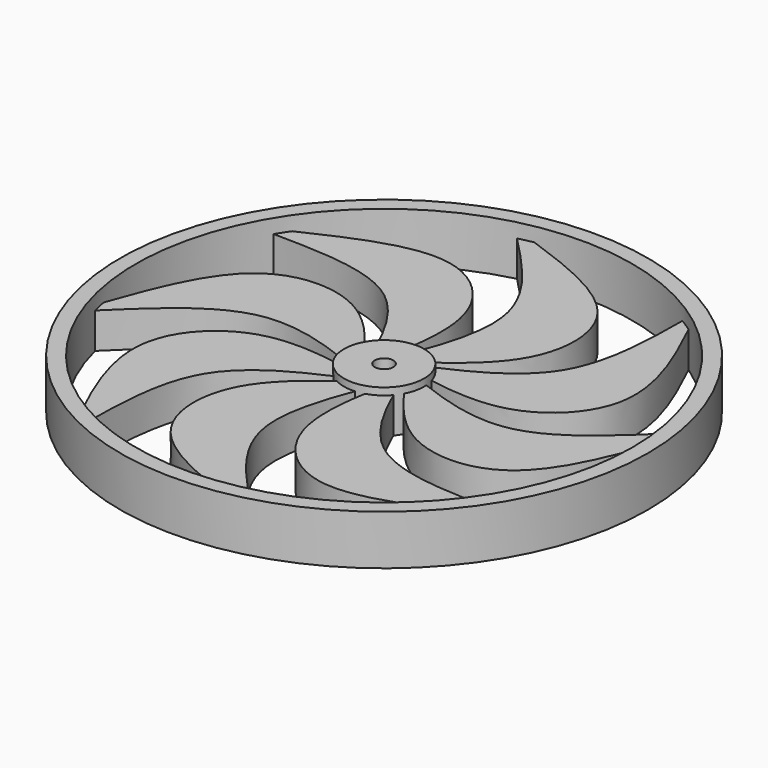
from build123d import *

# Parameters (mm, degrees)
F1_DEPTH = 6.35
F3_COUNT = 8
F4_R     = 47.0825039729
F4_R_2   = 44.3068303906
F5_DEPTH = 8.89
F6_R     = 7.1417908763
F6_R_2   = 1.651
F7_DEPTH = 7.62


with BuildPart() as f1:
    # F0 (on Top) → F1 (new body)
    with BuildSketch(Plane.XY):
        with BuildLine():
            add(Edge.make_bspline(
                [(0, 3.3976645209), (7.4587884053, 6.5259501827), (22.5301517256, 12.8470210078), (22.7388737657, 29.6453608255), (22.844299674, 38.1302349269)],
                knots=[0, 0, 0, 0, 0.4948980558, 1, 1, 1, 1], degree=3))
            add(Edge.make_bspline(
                [(24.3381727487, 38.1302349269), (28.4900980885, 29.4641772404), (35.902941466, 13.991806455), (21.2929500045, -1.0839801467), (7.440462338, 1.8316293611), (0, 3.3976645209)],
                knots=[0, 0, 0, 0, 0.3708140201, 0.6620509832, 1, 1, 1, 1], degree=3))
            Line((24.3381727487, 38.1302349269), (22.844299674, 38.1302349269))
        make_face()
    extrude(amount=F1_DEPTH)


with BuildPart() as f3_1:
    # F3: instance of F1
    add(f1.part.rotate(Axis((0, 0, 23.2516843826), (0, 0, 1)), 1 * 360 / F3_COUNT))


with BuildPart() as f3_2:
    # F3: instance of F1
    add(f1.part.rotate(Axis((0, 0, 23.2516843826), (0, 0, 1)), 2 * 360 / F3_COUNT))


with BuildPart() as f3_3:
    # F3: instance of F1
    add(f1.part.rotate(Axis((0, 0, 23.2516843826), (0, 0, 1)), 3 * 360 / F3_COUNT))


with BuildPart() as f3_4:
    # F3: instance of F1
    add(f1.part.rotate(Axis((0, 0, 23.2516843826), (0, 0, 1)), 4 * 360 / F3_COUNT))


with BuildPart() as f3_5:
    # F3: instance of F1
    add(f1.part.rotate(Axis((0, 0, 23.2516843826), (0, 0, 1)), 5 * 360 / F3_COUNT))


with BuildPart() as f3_6:
    # F3: instance of F1
    add(f1.part.rotate(Axis((0, 0, 23.2516843826), (0, 0, 1)), 6 * 360 / F3_COUNT))


with BuildPart() as f3_7:
    # F3: instance of F1
    add(f1.part.rotate(Axis((0, 0, 23.2516843826), (0, 0, 1)), 7 * 360 / F3_COUNT))


with BuildPart() as f1_1:
    add(f1.part)

    add(f3_1.part)  # F5 merges F3_1

    add(f3_2.part)  # F5 merges F3_2

    add(f3_3.part)  # F5 merges F3_3

    add(f3_4.part)  # F5 merges F3_4

    add(f3_5.part)  # F5 merges F3_5

    add(f3_6.part)  # F5 merges F3_6

    add(f3_7.part)  # F5 merges F3_7
    # F4 (on Top) → F5 (join)
    with BuildSketch(Plane.XY):
        Circle(F4_R)
        Circle(F4_R_2, mode=Mode.SUBTRACT)
    extrude(amount=F5_DEPTH)

    # F6 (on Top) → F7 (join)
    with BuildSketch(Plane.XY):
        Circle(F6_R)
        Circle(F6_R_2, mode=Mode.SUBTRACT)
    extrude(amount=F7_DEPTH)


solid = f1_1.part
